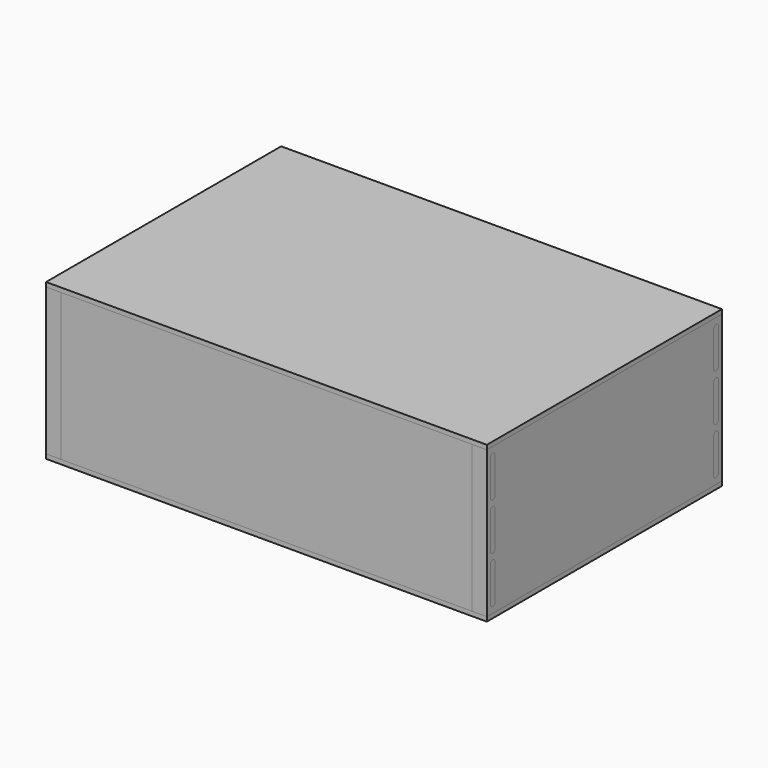
from build123d import *

# Parameters (mm, degrees)
SKETCH_W         = 300
SKETCH_H         = 200
PAD_DEPTH        = 3
ARRAY002_Z_COUNT = 2
ARRAY002_Z_PITCH = 103
PAD009_DEPTH     = 10
ARRAY005_X_COUNT = 2
ARRAY005_X_PITCH = 290
ARRAY005_Z_COUNT = 3
ARRAY005_Z_PITCH = 32
PAD008_DEPTH     = 10
ARRAY006_X_COUNT = 2
ARRAY006_X_PITCH = 290
ARRAY006_Z_COUNT = 3
ARRAY006_Z_PITCH = 32
PAD007_DEPTH     = 10
ARRAY001_X_COUNT = 2
ARRAY001_X_PITCH = 290
ARRAY001_Z_COUNT = 3
ARRAY001_Z_PITCH = 32
PAD006_DEPTH     = 10
ARRAY_X_COUNT    = 2
ARRAY_X_PITCH    = 290
ARRAY_Z_COUNT    = 3
ARRAY_Z_PITCH    = 32
SKETCH002_W      = 200
SKETCH002_H      = 100
PAD002_DEPTH     = 10
ARRAY003_X_COUNT = 2
ARRAY003_X_PITCH = 290
SKETCH010_W      = 10
SKETCH010_H      = 100
PAD010_DEPTH     = 10
ARRAY007_X_COUNT = 2
ARRAY007_X_PITCH = 290
ARRAY007_Y_COUNT = 2
ARRAY007_Y_PITCH = 190
SKETCH004_W      = 300
SKETCH004_H      = 100
PAD004_DEPTH     = 10
ARRAY004_Y_COUNT = 2
ARRAY004_Y_PITCH = 190


with BuildPart() as array_covers:
    # Sketch → Pad (new body)
    with BuildSketch(Plane.XY):
        with Locations((150, 100)):
            Rectangle(SKETCH_W, SKETCH_H)
    extrude(amount=-PAD_DEPTH)

    # Array002 Z: Array, Covers ×2


with BuildPart() as array_covers_1:
    add(array_covers.part)
    with Locations(*[(0, 0, i * ARRAY002_Z_PITCH) for i in range(1, ARRAY002_Z_COUNT)]):
        add(array_covers.part)


with BuildPart() as array_joints_dowels_back:
    # Sketch008 → Pad009 (new body)
    with BuildSketch(Plane(origin=(0, 200, 0), x_dir=(0, 1, 0), z_dir=(1, 0, 0))):
        with BuildLine():
            ThreePointArc((-3, 30), (-5, 32), (-7, 30))
            Line((-7, 30), (-7, 6))
            ThreePointArc((-7, 6), (-5, 4), (-3, 6))
            Line((-3, 30), (-3, 6))
        make_face()
    extrude(amount=PAD009_DEPTH)

    # Array005 X: Array, Joints, Dowels, Back ×2


with BuildPart() as array_joints_dowels_back_1:
    add(array_joints_dowels_back.part)
    with Locations(*[(i * ARRAY005_X_PITCH, 0, 0) for i in range(1, ARRAY005_X_COUNT)]):
        add(array_joints_dowels_back.part)

    # Array005 Z: Array, Joints, Dowels, Back ×3


with BuildPart() as array_joints_dowels_back_2:
    add(array_joints_dowels_back_1.part)
    with Locations(*[(0, 0, i * ARRAY005_Z_PITCH) for i in range(1, ARRAY005_Z_COUNT)]):
        add(array_joints_dowels_back_1.part)


with BuildPart() as array_joints_dowels_front:
    # Sketch009 → Pad008 (new body)
    with BuildSketch(Plane.YZ):
        with BuildLine():
            ThreePointArc((7, 30), (5, 32), (3, 30))
            Line((3, 30), (3, 6))
            ThreePointArc((3, 6), (5, 4), (7, 6))
            Line((7, 30), (7, 6))
        make_face()
    extrude(amount=PAD008_DEPTH)

    # Array006 X: Array, Joints, Dowels, Front ×2


with BuildPart() as array_joints_dowels_front_1:
    add(array_joints_dowels_front.part)
    with Locations(*[(i * ARRAY006_X_PITCH, 0, 0) for i in range(1, ARRAY006_X_COUNT)]):
        add(array_joints_dowels_front.part)

    # Array006 Z: Array, Joints, Dowels, Front ×3


with BuildPart() as array_joints_dowels_front_2:
    add(array_joints_dowels_front_1.part)
    with Locations(*[(0, 0, i * ARRAY006_Z_PITCH) for i in range(1, ARRAY006_Z_COUNT)]):
        add(array_joints_dowels_front_1.part)


with BuildPart() as array_joints_cut_back:
    # Sketch007 → Pad007 (new body)
    with BuildSketch(Plane(origin=(0, 200, 0), x_dir=(0, 1, 0), z_dir=(1, 0, 0))):
        with BuildLine():
            ThreePointArc((-3, 30), (-5, 32), (-7, 30))
            Line((-7, 30), (-7, 6))
            ThreePointArc((-7, 6), (-5, 4), (-3, 6))
            Line((-3, 30), (-3, 6))
        make_face()
    extrude(amount=PAD007_DEPTH)

    # Array001 X: Array, Joints, Cut, Back ×2


with BuildPart() as array_joints_cut_back_1:
    add(array_joints_cut_back.part)
    with Locations(*[(i * ARRAY001_X_PITCH, 0, 0) for i in range(1, ARRAY001_X_COUNT)]):
        add(array_joints_cut_back.part)

    # Array001 Z: Array, Joints, Cut, Back ×3


with BuildPart() as array_joints_cut_back_2:
    add(array_joints_cut_back_1.part)
    with Locations(*[(0, 0, i * ARRAY001_Z_PITCH) for i in range(1, ARRAY001_Z_COUNT)]):
        add(array_joints_cut_back_1.part)


with BuildPart() as fusion:
    # Sketch006 → Pad006 (new body)
    with BuildSketch(Plane.YZ):
        with BuildLine():
            ThreePointArc((7, 30), (5, 32), (3, 30))
            Line((3, 30), (3, 6))
            ThreePointArc((3, 6), (5, 4), (7, 6))
            Line((7, 30), (7, 6))
        make_face()
    extrude(amount=PAD006_DEPTH)

    # Array X: Fusion ×2


with BuildPart() as fusion_1:
    add(fusion.part)
    with Locations(*[(i * ARRAY_X_PITCH, 0, 0) for i in range(1, ARRAY_X_COUNT)]):
        add(fusion.part)

    # Array Z: Fusion ×3


with BuildPart() as fusion_2:
    add(fusion_1.part)
    with Locations(*[(0, 0, i * ARRAY_Z_PITCH) for i in range(1, ARRAY_Z_COUNT)]):
        add(fusion_1.part)

    # Fusion: union Array, Joints, Cut, Back
    add(array_joints_cut_back_2.part)


with BuildPart() as sides_cut:
    # Sketch002 → Pad002 (new body)
    with BuildSketch(Plane.YZ):
        with Locations((100, 50)):
            Rectangle(SKETCH002_W, SKETCH002_H)
    extrude(amount=PAD002_DEPTH)

    # Array003 X: Sides, cut ×2


with BuildPart() as sides_cut_1:
    add(sides_cut.part)
    with Locations(*[(i * ARRAY003_X_PITCH, 0, 0) for i in range(1, ARRAY003_X_COUNT)]):
        add(sides_cut.part)

    # Cut: cut Fusion
    add(fusion_2.part, mode=Mode.SUBTRACT)


with BuildPart() as array_boxcut:
    # Sketch010 → Pad010 (new body)
    with BuildSketch(Plane.YZ):
        with Locations((5, 50)):
            Rectangle(SKETCH010_W, SKETCH010_H)
    extrude(amount=PAD010_DEPTH)

    # Array007 X: Array, BoxCut ×2


with BuildPart() as array_boxcut_1:
    add(array_boxcut.part)
    with Locations(*[(i * ARRAY007_X_PITCH, 0, 0) for i in range(1, ARRAY007_X_COUNT)]):
        add(array_boxcut.part)

    # Array007 Y: Array, BoxCut ×2


with BuildPart() as array_boxcut_2:
    add(array_boxcut_1.part)
    with Locations(*[(0, i * ARRAY007_Y_PITCH, 0) for i in range(1, ARRAY007_Y_COUNT)]):
        add(array_boxcut_1.part)


with BuildPart() as fronts_cut:
    # Sketch004 → Pad004 (new body)
    with BuildSketch(Plane.XZ):
        with Locations((150, 50)):
            Rectangle(SKETCH004_W, SKETCH004_H)
    extrude(amount=-PAD004_DEPTH)

    # Array004 Y: Fronts, cut ×2


with BuildPart() as fronts_cut_1:
    add(fronts_cut.part)
    with Locations(*[(0, i * ARRAY004_Y_PITCH, 0) for i in range(1, ARRAY004_Y_COUNT)]):
        add(fronts_cut.part)

    # Cut001: cut Array, BoxCut
    add(array_boxcut_2.part, mode=Mode.SUBTRACT)


solid = Compound([array_covers_1.part, array_joints_dowels_back_2.part, array_joints_dowels_front_2.part, sides_cut_1.part, fronts_cut_1.part])
